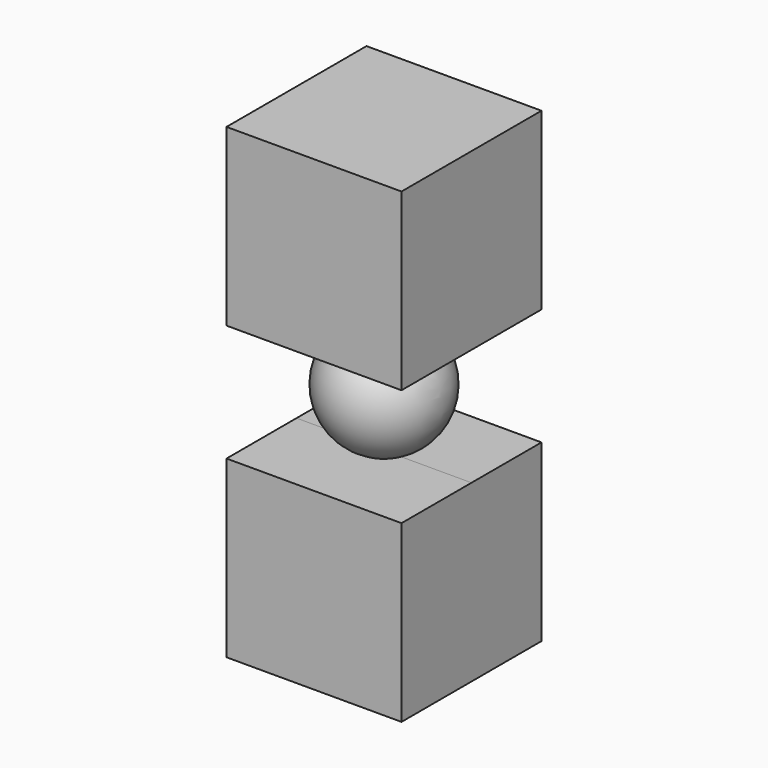
from build123d import *

# Parameters (mm, degrees)
F2_DEPTH  = 19.05
F2_FACE_W = 38.1
F2_FACE_H = 38.1
F3_DEPTH  = 19.05


with BuildPart() as f1:
    # F0 (on Front) → F1 (revolve)
    with BuildSketch(Plane.XZ):
        with BuildLine():
            Line((0, -6.342257), (0, -31.742257))
            ThreePointArc((0, -31.742257), (12.7, -19.042257), (0, -6.342257))
        make_face()
    revolve(axis=Axis((0, 0, -19.042257), (0, 0, -1)))



with BuildPart() as f2:
    # F0 (on Front) → F2 (new body)
    with BuildSketch(Plane.XZ):
        Polygon((19.05, 31.833278), (-19.05, 31.833278), (-19.05, -6.266722), (19.05, -6.266722), (19.05, 0), align=None)
        Polygon((0, -31.742257), (-19.05, -31.742257), (-19.05, -69.842257), (19.05, -69.842257), (19.05, -31.742257), align=None)
    extrude(amount=F2_DEPTH)


with BuildPart() as f1_1:
    add(f1.part)

    add(f2.part)  # F3 merges F2
    # F2_face (on face) → F3 (join)
    with BuildSketch(Plane(origin=(0, 0, 12.783278), x_dir=(1, 0, 0), z_dir=(0, 1, 0))):
        Rectangle(F2_FACE_W, F2_FACE_H)
        with Locations((0, 63.575536)):
            Rectangle(F2_FACE_W, F2_FACE_H)
    extrude(amount=F3_DEPTH)


solid = f1_1.part
